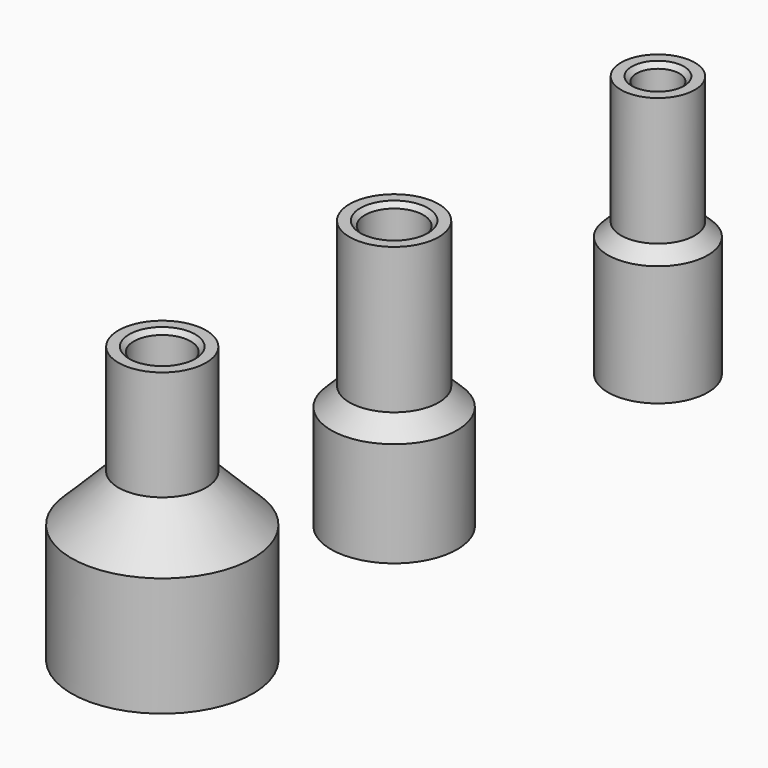
from build123d import *

# Parameters (mm, degrees)
F4_SIZE   = 0.6
F4_2_SIZE = 0.6
F4_3_SIZE = 0.6


with BuildPart() as f1:
    # F0 (on Right) → F1 (revolve)
    with BuildSketch(Plane.YZ):
        Polygon((-8.2, 0.0052660612), (-5.8, 0.0052660612), (-5.8, 13.0052660612), (-3.8, 15.0052660612), (-3.8, 34.9776267817), (-5.8, 34.9776267817), (-5.8, 16.0460362283), (-8.2, 13.6460362283), align=None)
    revolve(axis=Axis((0, 0, 5.2408409514), (0, 0, -1)))

    # F4
    f4_edges = [f1.edges().sort_by_distance(p)[0] for p in [
        (0, 5.8, 0.005266),
        (0, 3.8, 34.977627),
    ]]
    chamfer(f4_edges, length=F4_SIZE)


with BuildPart() as f2:
    # F0 (on Right) → F2 (revolve)
    with BuildSketch(Plane.YZ):
        Polygon((36.3653332472, 0), (38.7653332472, 0), (38.7653332472, 15), (40.0653332472, 16.3), (40.0653332472, 34.0719968081), (38.0653332472, 34.0719968081), (38.0653332472, 17.4058965415), (36.3653332472, 15.7058965415), align=None)
    revolve(axis=Axis((0, 42.8653332472, 8.6921965703), (0, 0, -1)))

    # F4#2
    f4_2_edges = [f2.edges().sort_by_distance(p)[0] for p in [
        (0, 46.965333, 0),
        (0, 45.665333, 34.071997),
    ]]
    chamfer(f4_2_edges, length=F4_2_SIZE)


with BuildPart() as f3:
    # F0 (on Right) → F3 (revolve)
    with BuildSketch(Plane.YZ):
        Polygon((-49.4858663619, 0), (-47.0858663619, 0), (-47.0858663619, 14), (-41.3858663619, 19.7), (-41.3858663619, 35.8776268103), (-43.3858663619, 35.8776268103), (-43.3858663619, 21.5810506761), (-49.4858663619, 15.4810506761), align=None)
    revolve(axis=Axis((0, -37.6858663619, 16.0833399966), (0, 0, -1)))

    # F4#3
    f4_3_edges = [f3.edges().sort_by_distance(p)[0] for p in [
        (0, -33.985866, 35.877627),
        (0, -28.285866, 0),
    ]]
    chamfer(f4_3_edges, length=F4_3_SIZE)


solid = Compound([f1.part, f2.part, f3.part])
